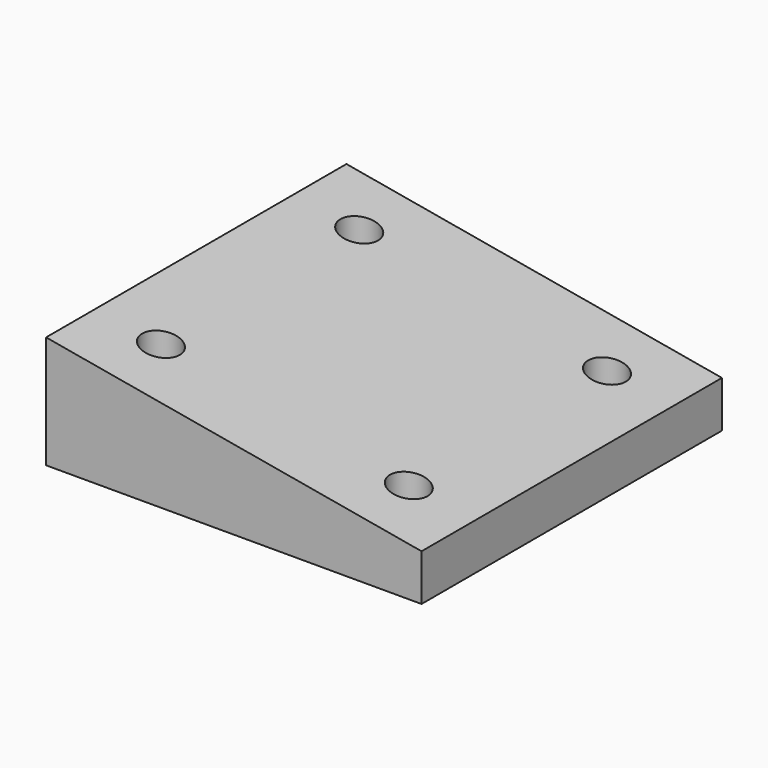
from build123d import *

# Parameters (mm, degrees)
F0_W     = 50
F0_H     = 50
F0_R     = 2.5
F0_R_2   = 9.55
F1_DEPTH = 15
F3_DEPTH = 25
F4_R     = 10.25
F5_DEPTH = 5


with BuildPart() as f1:
    # F0 (on Top) → F1 (new body)
    with BuildSketch(Plane.XY):
        Rectangle(F0_W, F0_H)
        with Locations((-16.5, -16.5)):
            Circle(F0_R, mode=Mode.SUBTRACT)
        with Locations((16.5, -16.5)):
            Circle(F0_R, mode=Mode.SUBTRACT)
        with Locations((-16.5, 16.5)):
            Circle(F0_R, mode=Mode.SUBTRACT)
        Circle(F0_R_2, mode=Mode.SUBTRACT)
        with Locations((16.5, 16.5)):
            Circle(F0_R, mode=Mode.SUBTRACT)
        Circle(F0_R_2)
    extrude(amount=F1_DEPTH)

    # F2 (on Front) → F3 (cut, symmetric)
    with BuildSketch(Plane.XZ):
        Polygon((25, 15), (-25, 15), (25, 6.183651), align=None)
    extrude(amount=F3_DEPTH, both=True, mode=Mode.SUBTRACT)

    # F4 (on Top) → F5 (cut)
    with BuildSketch(Plane.XY):
        Circle(F4_R)
    extrude(amount=F5_DEPTH, mode=Mode.SUBTRACT)


solid = f1.part
